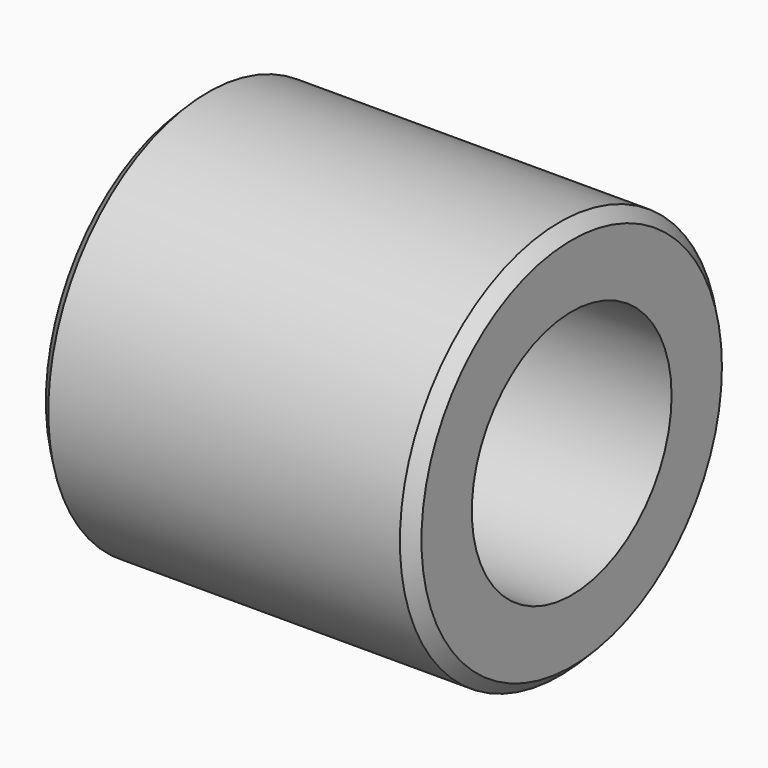
from build123d import *

# Parameters (mm, degrees)
F0_R     = 12.7
F0_R_2   = 7.9375
F1_DEPTH = 11.938
F2_SIZE  = 0.762


with BuildPart() as f1:
    # F0 (on Right) → F1 (new body, symmetric)
    with BuildSketch(Plane.YZ):
        Circle(F0_R)
        Circle(F0_R_2, mode=Mode.SUBTRACT)
    extrude(amount=F1_DEPTH, both=True)

    # F2
    f2_edges = [f1.edges().sort_by_distance(p)[0] for p in [
        (-11.938, -12.7, 0),
        (11.938, -12.7, 0),
    ]]
    chamfer(f2_edges, length=F2_SIZE)


solid = f1.part
